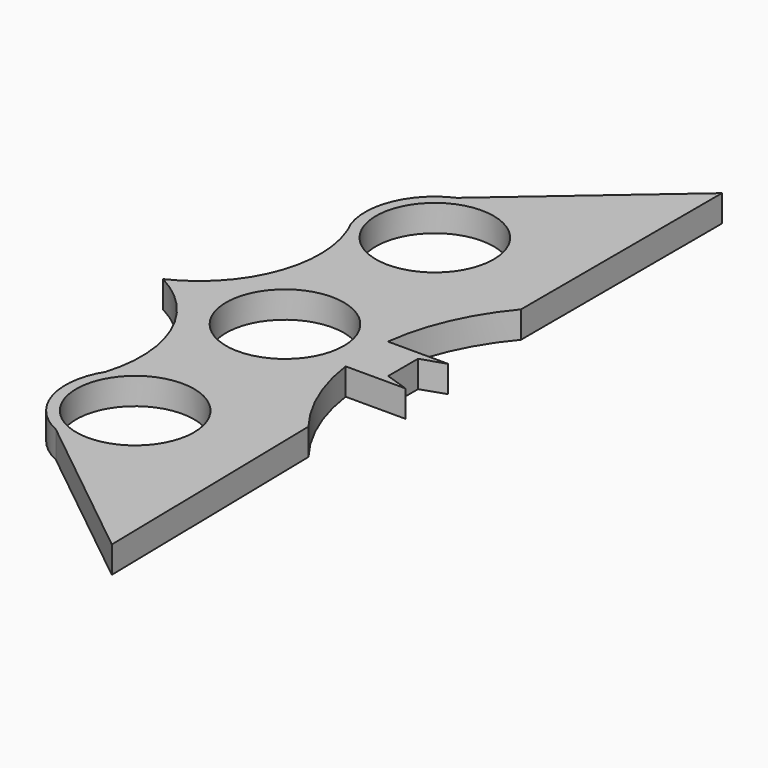
from build123d import *

# Parameters (mm, degrees)
F0_R     = 11
F1_DEPTH = 5


with BuildPart() as f1:
    # F0 (on Top) → F1 (new body)
    with BuildSketch(Plane.XY):
        with BuildLine():
            ThreePointArc((-5.328375, 46.857842), (7.061555, 45.914872), (13, 35))
            ThreePointArc((13, 35), (3.263036, 22.416177), (-11.361938, 28.682851))
            ThreePointArc((-11.361938, 28.682851), (-11.419195, 12.087231), (-22.790948, 0))
            ThreePointArc((-22.790948, 0), (-11.819872, -11.932631), (-11.032154, -28.123112))
            ThreePointArc((-11.032154, -28.123112), (3.576451, -22.50164), (13, -35))
            ThreePointArc((13, -35), (7.061555, -45.914872), (-5.328375, -46.857842))
            Line((-5.328375, -46.857842), (23.764569, -70.154617))
            Line((23.764569, -70.154617), (22.902545, -23.154617))
            ThreePointArc((22.902545, -23.154617), (17.870455, -14.524343), (15.235059, -4.888045))
            Line((15.235059, -4.888045), (26.443267, -4.888045))
            Line((26.443267, -4.888045), (21.993627, -3.388045))
            Line((21.993627, -3.388045), (21.993627, 3.58024))
            Line((21.993627, 3.58024), (26.443267, 5.08024))
            Line((26.443267, 5.08024), (15.172052, 5.08024))
            ThreePointArc((15.172052, 5.08024), (18.112091, 15.760837), (23.979004, 25.157556))
            Line((23.979004, 25.157556), (23.926978, 72.157556))
            Line((23.926978, 72.157556), (-5.328375, 46.857842))
        make_face()
        Circle(F0_R, mode=Mode.SUBTRACT)
        with BuildLine():
            ThreePointArc((-11.361938, 28.682851), (3.263036, 22.416177), (13, 35))
            ThreePointArc((13, 35), (7.061555, 45.914872), (-5.328375, 46.857842))
            ThreePointArc((-5.328375, 46.857842), (-11.941319, 40.13857), (-12.274144, 30.716847))
            ThreePointArc((-12.274144, 30.716847), (-11.792962, 29.711097), (-11.361938, 28.682851))
        make_face()
        with Locations((0, 35)):
            Circle(F0_R, mode=Mode.SUBTRACT)
        with BuildLine():
            ThreePointArc((13, -35), (3.576451, -22.50164), (-11.032154, -28.123112))
            ThreePointArc((-11.032154, -28.123112), (-12.436408, -38.786258), (-5.328375, -46.857842))
            ThreePointArc((-5.328375, -46.857842), (7.061555, -45.914872), (13, -35))
        make_face()
        with Locations((0, -35)):
            Circle(F0_R, mode=Mode.SUBTRACT)
    extrude(amount=F1_DEPTH)


solid = f1.part
